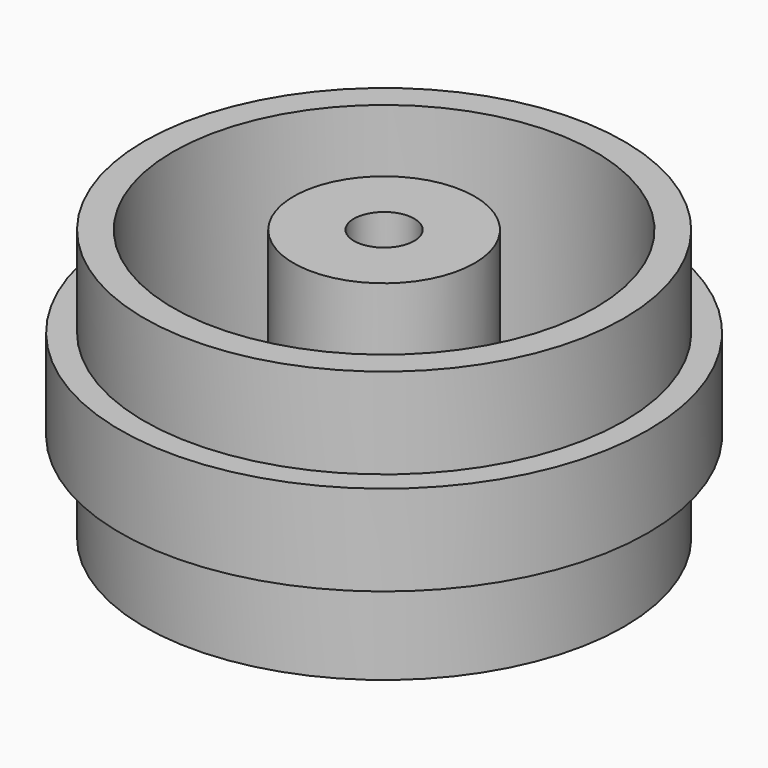
from build123d import *

# Parameters (mm, degrees)
F0_R      = 7.95
F1_DEPTH  = 3
F2_R      = 8.75
F2_R_2    = 7.95
F3_DEPTH  = 3
F4_R      = 7.95
F5_DEPTH  = 3
F6_R      = 1.5
F7_DEPTH  = 25
F8_R      = 7
F8_R_2    = 1.5
F8_R_3    = 3
F9_DEPTH  = 7
F10_R     = 1
F11_DEPTH = 25


with BuildPart() as f1:
    # F0 (on Top) → F1 (new body)
    with BuildSketch(Plane.XY):
        Circle(F0_R)
    extrude(amount=F1_DEPTH)

    # F2 (on face) → F3 (join)
    with BuildSketch(Plane.XY.offset(3)):
        Circle(F2_R)
        Circle(F2_R_2, mode=Mode.SUBTRACT)
        Circle(F2_R_2)
    extrude(amount=F3_DEPTH)

    # F4 (on face) → F5 (join)
    with BuildSketch(Plane.XY.offset(6)):
        Circle(F4_R)
    extrude(amount=F5_DEPTH)

    # F6 (on face) → F7 (cut)
    with BuildSketch(Plane.XY.offset(9)):
        with Locations((-4.104615283, 3.2733214598)):
            Circle(F6_R)
        with Locations((0, 5.25)):
            Circle(F6_R)
        with Locations((4.104615283, 3.2733214598)):
            Circle(F6_R)
        with Locations((5.118371539, -1.1682349033)):
            Circle(F6_R)
        with Locations((2.2778896304, -4.7300865565)):
            Circle(F6_R)
        with Locations((-2.2778896304, -4.7300865565)):
            Circle(F6_R)
        with Locations((-5.118371539, -1.1682349033)):
            Circle(F6_R)
    extrude(amount=-F7_DEPTH, mode=Mode.SUBTRACT)

    # F8 (on face) → F9 (cut)
    with BuildSketch(Plane.XY.offset(9)):
        Circle(F8_R)
        with Locations((-2.2778896304, -4.7300865565)):
            Circle(F8_R_2, mode=Mode.SUBTRACT)
        with Locations((-5.118371539, -1.1682349033)):
            Circle(F8_R_2, mode=Mode.SUBTRACT)
        with Locations((2.2778896304, -4.7300865565)):
            Circle(F8_R_2, mode=Mode.SUBTRACT)
        with Locations((5.118371539, -1.1682349033)):
            Circle(F8_R_2, mode=Mode.SUBTRACT)
        with Locations((-4.104615283, 3.2733214598)):
            Circle(F8_R_2, mode=Mode.SUBTRACT)
        Circle(F8_R_3, mode=Mode.SUBTRACT)
        with Locations((4.104615283, 3.2733214598)):
            Circle(F8_R_2, mode=Mode.SUBTRACT)
        with Locations((0, 5.25)):
            Circle(F8_R_2, mode=Mode.SUBTRACT)
    extrude(amount=-F9_DEPTH, mode=Mode.SUBTRACT)

    # F10 (on face) → F11 (cut)
    with BuildSketch(Plane.XY.offset(9)):
        Circle(F10_R)
    extrude(amount=-F11_DEPTH, mode=Mode.SUBTRACT)


solid = f1.part
